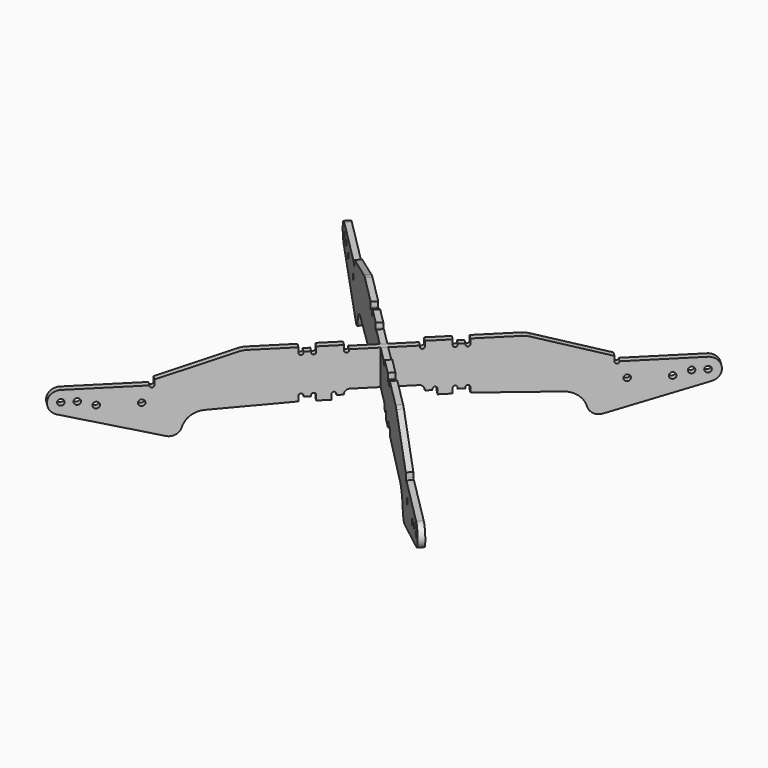
from build123d import *

# Parameters (mm, degrees)
F2_R     = 1.5
F3_DEPTH = 1.5


with BuildPart() as f3:
    # F2 (on face) → F3 (new body, symmetric)
    with BuildSketch(Plane(origin=(0, 0, 0), x_dir=(-0.707107, 0.707107, 0), z_dir=(0.707107, 0.707107, 0))):
        with BuildLine():
            Line((16, 0.25), (16, 0))
            Line((16, 0), (19, 0))
            Line((19, 0), (19, 0.5))
            ThreePointArc((19, 0.5), (20, 1.5), (21, 0.5))
            Line((21, 0.5), (21, -2))
            Line((21, -2), (27, -2))
            Line((27, -2), (27, 0.5))
            ThreePointArc((27, 0.5), (28, 1.5), (29, 0.5))
            Line((29, 0.5), (29, 0))
            Line((29, 0), (32, 0))
            Line((32, 0), (32, 0.5))
            ThreePointArc((32, 0.5), (33, 1.5), (34, 0.5))
            Line((34, 0.5), (34, -2))
            Line((34, -2), (71.005716, -3.609444))
            ThreePointArc((71.005716, -3.609444), (76.77089, -5.75373), (80.190403, -10.866667))
            ThreePointArc((80.190403, -10.866667), (82.554305, -13.861029), (86.342016, -14.316533))
            Line((86.342016, -14.316533), (129.476217, -2.298187))
            ThreePointArc((129.476217, -2.298187), (133.449313, 3.744974), (128, 8.5))
            Line((128, 8.5), (93, 8.5))
            ThreePointArc((93, 8.5), (92, 7.5), (91, 8.5))
            Line((91, 8.5), (91, 11))
            Line((91, 11), (57.463836, 21.539937))
            ThreePointArc((57.463836, 21.539937), (55.982249, 21.884315), (54.46557, 22))
            Line((54.46557, 22), (34, 22))
            Line((34, 22), (34, 19.5))
            ThreePointArc((34, 19.5), (33, 18.5), (32, 19.5))
            Line((32, 19.5), (32, 20))
            Line((32, 20), (29, 20))
            Line((29, 20), (29, 19.5))
            ThreePointArc((29, 19.5), (28, 18.5), (27, 19.5))
            Line((27, 19.5), (27, 22))
            Line((27, 22), (16, 22))
            Line((16, 22), (16, 19.5))
            ThreePointArc((16, 19.5), (15, 18.5), (14, 19.5))
            Line((14, 19.5), (14, 20))
            Line((14, 20), (-14, 20))
            Line((-14, 20), (-14, 19.5))
            ThreePointArc((-14, 19.5), (-15, 18.5), (-16, 19.5))
            Line((-16, 19.5), (-16, 22))
            Line((-16, 22), (-27, 22))
            Line((-27, 22), (-27, 19.5))
            ThreePointArc((-27, 19.5), (-28, 18.5), (-29, 19.5))
            Line((-29, 19.5), (-29, 20))
            Line((-29, 20), (-32, 20))
            Line((-32, 20), (-32, 19.5))
            ThreePointArc((-32, 19.5), (-33, 18.5), (-34, 19.5))
            Line((-34, 19.5), (-34, 22))
            Line((-34, 22), (-54.46557, 22))
            ThreePointArc((-54.46557, 22), (-55.982249, 21.884315), (-57.463836, 21.539937))
            Line((-57.463836, 21.539937), (-91, 11))
            Line((-91, 11), (-91, 8.5))
            ThreePointArc((-91, 8.5), (-92, 7.5), (-93, 8.5))
            Line((-93, 8.5), (-128, 8.5))
            ThreePointArc((-128, 8.5), (-133.449313, 3.744974), (-129.476217, -2.298187))
            Line((-129.476217, -2.298187), (-86.342016, -14.316533))
            ThreePointArc((-86.342016, -14.316533), (-82.554305, -13.861029), (-80.190403, -10.866667))
            ThreePointArc((-80.190403, -10.866667), (-76.77089, -5.75373), (-71.005716, -3.609444))
            Line((-71.005716, -3.609444), (-34, -2))
            Line((-34, -2), (-34, 0.5))
            ThreePointArc((-34, 0.5), (-33, 1.5), (-32, 0.5))
            Line((-32, 0.5), (-32, 0))
            Line((-32, 0), (-29, 0))
            Line((-29, 0), (-29, 0.5))
            ThreePointArc((-29, 0.5), (-28, 1.5), (-27, 0.5))
            Line((-27, 0.5), (-27, -2))
            Line((-27, -2), (-21, -2))
            Line((-21, -2), (-21, 0.5))
            ThreePointArc((-21, 0.5), (-20, 1.5), (-19, 0.5))
            Line((-19, 0.5), (-19, 0))
            Line((-19, 0), (-16, 0))
            Line((-16, 0), (-16, 0.25))
            ThreePointArc((-16, 0.25), (-15.34099, 1.84099), (-13.75, 2.5))
            Line((-13.75, 2.5), (13.75, 2.5))
            ThreePointArc((13.75, 2.5), (15.34099, 1.84099), (16, 0.25))
        make_face()
        with Locations((-114, 1)):
            Circle(F2_R, mode=Mode.SUBTRACT)
        with Locations((-128, 3)):
            Circle(F2_R, mode=Mode.SUBTRACT)
        with Locations((-121.5, 3)):
            Circle(F2_R, mode=Mode.SUBTRACT)
        with Locations((-96, 1)):
            Circle(F2_R, mode=Mode.SUBTRACT)
        with Locations((96, 1)):
            Circle(F2_R, mode=Mode.SUBTRACT)
        with Locations((114, 1)):
            Circle(F2_R, mode=Mode.SUBTRACT)
        with Locations((121.5, 3)):
            Circle(F2_R, mode=Mode.SUBTRACT)
        with Locations((128, 3)):
            Circle(F2_R, mode=Mode.SUBTRACT)
    extrude(amount=F3_DEPTH, both=True)


with BuildPart() as f4_1:
    # F4: instance of F3
    add(f3.part.mirror(Plane.YZ))


solid = Compound([f3.part, f4_1.part])
